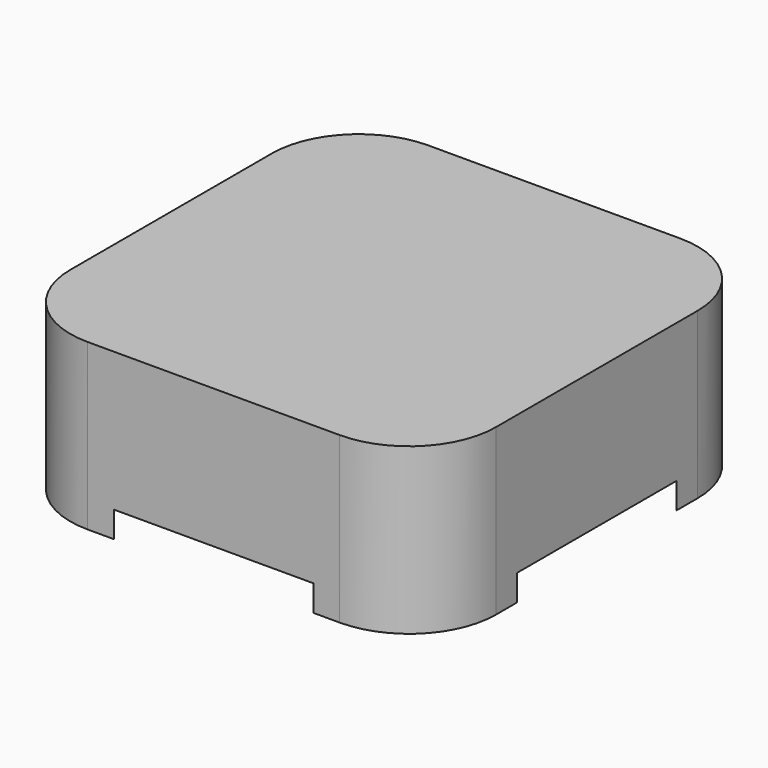
from build123d import *

# Parameters (mm, degrees)
F0_W     = 98
F0_H     = 98
F1_DEPTH = 38
F2_R     = 20


with BuildPart() as f1:
    # F0 (on Top) → F1 (new body)
    with BuildSketch(Plane.XY):
        Rectangle(F0_W, F0_H)
    extrude(amount=F1_DEPTH)

    # F2
    f2_edges = [f1.edges().sort_by_distance(p)[0] for p in [
        (-49, 49, 19),
        (49, 49, 19),
        (49, -49, 19),
        (-49, -49, 19),
    ]]
    fillet(f2_edges, radius=F2_R)

    # F3 (on Front) → F4 (revolve, cut)
    with BuildSketch(Plane.XZ):
        Polygon((47, 6), (39.5, 0), (54.118488, 0), (54.118488, 6), align=None)
    revolve(axis=Axis((0, 0, 17.541468), (0, 0, -1)), mode=Mode.SUBTRACT)


solid = f1.part
